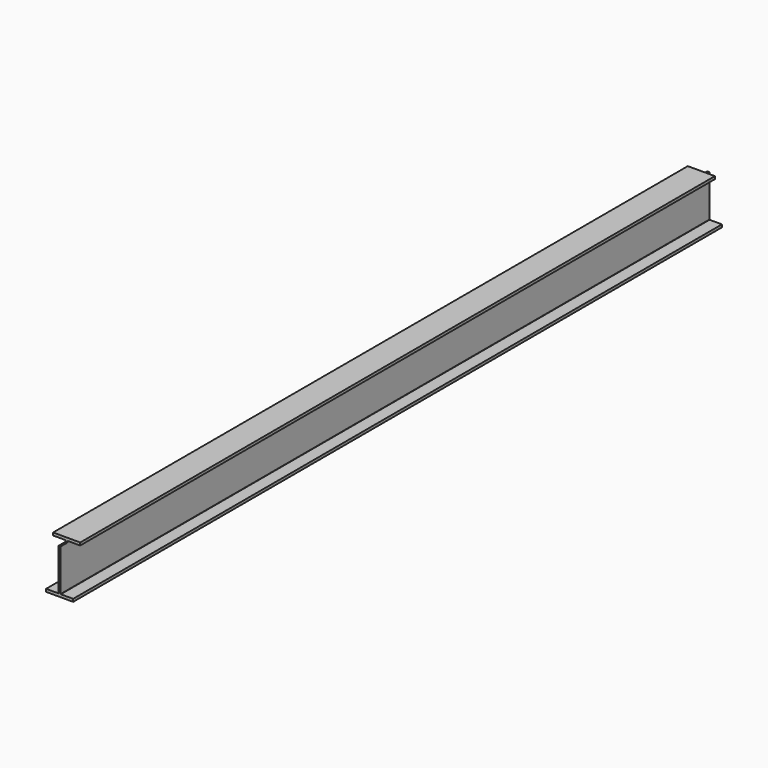
from build123d import *

# Parameters (mm, degrees)
F1_DEPTH = 7607.3
F2_W     = 82.55
F2_H     = 25.4
F2_H_2   = 12.7
F3_DEPTH = 254.001
F4_W     = 82.55
F4_H     = 25.4
F4_H_2   = 12.7
F5_DEPTH = 254.001


with BuildPart() as f1:
    # F0 (on Front) → F1 (new body)
    with BuildSketch(Plane.XZ):
        with BuildLine():
            Line((127, -228.6), (127, -203.2))
            Line((127, -203.2), (12.065, -203.2))
            ThreePointArc((12.065, -203.2), (10.268949, -202.456051), (9.525, -200.66))
            Line((9.525, -200.66), (9.525, 200.66))
            ThreePointArc((9.525, 200.66), (10.268949, 202.456051), (12.065, 203.2))
            Line((12.065, 203.2), (127, 203.2))
            Line((127, 203.2), (127, 228.6))
            Line((127, 228.6), (-127, 228.6))
            Line((-127, 228.6), (-127, 203.2))
            Line((-127, 203.2), (-12.065, 203.2))
            ThreePointArc((-12.065, 203.2), (-10.268949, 202.456051), (-9.525, 200.66))
            Line((-9.525, 200.66), (-9.525, -200.66))
            ThreePointArc((-9.525, -200.66), (-10.268949, -202.456051), (-12.065, -203.2))
            Line((-12.065, -203.2), (-127, -203.2))
            Line((-127, -203.2), (-127, -228.6))
            Line((-127, -228.6), (127, -228.6))
        make_face()
    extrude(amount=-F1_DEPTH)

    # F2 (on face) → F3 (cut, through all)
    with BuildSketch(Plane(origin=(-127, 0, 0), x_dir=(0, -1, 0), z_dir=(-1, 0, 0))):
        with Locations((-7566.025, 215.9)):
            Rectangle(F2_W, F2_H)
        with Locations((-7566.025, 196.85)):
            Rectangle(F2_W, F2_H_2)
    extrude(amount=-F3_DEPTH, mode=Mode.SUBTRACT)

    # F4 (on face) → F5 (cut, through all)
    with BuildSketch(Plane(origin=(-127, 0, 0), x_dir=(0, -1, 0), z_dir=(-1, 0, 0))):
        with Locations((-41.275, 215.9)):
            Rectangle(F4_W, F4_H)
        with Locations((-41.275, 196.85)):
            Rectangle(F4_W, F4_H_2)
    extrude(amount=-F5_DEPTH, mode=Mode.SUBTRACT)


solid = f1.part
